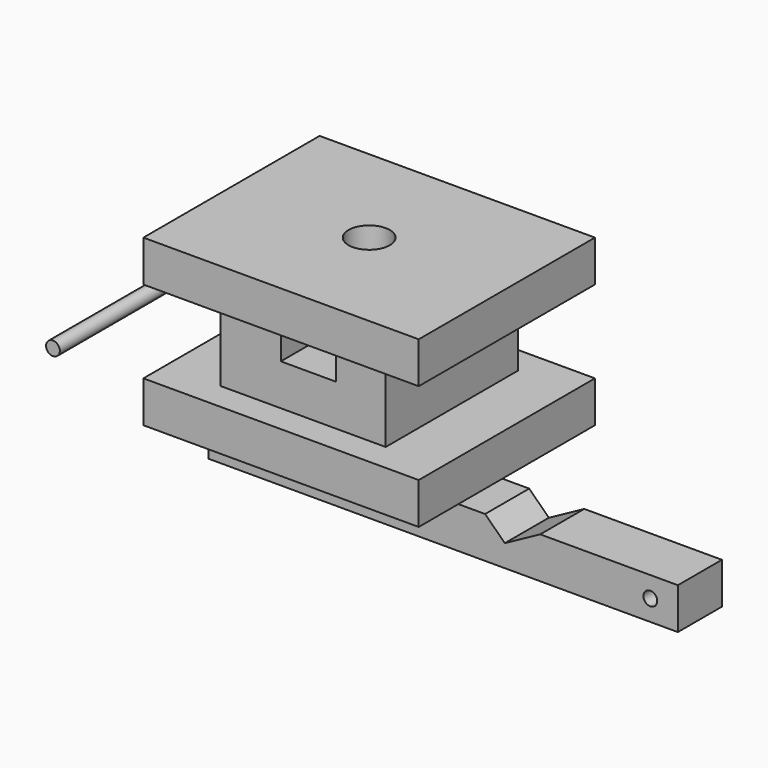
from build123d import *

# Parameters (mm, degrees)
F0_W      = 76.2
F0_H      = 38.1
F1_DEPTH  = 101.6
F2_W      = 76.2
F2_H      = 38.1
F3_DEPTH  = 12.7
F4_W      = 76.2
F4_H      = 38.1
F5_DEPTH  = 12.7
F6_W      = 25.4
F6_H      = 19.05
F7_DEPTH  = 88.901
F9_D      = 19.05
F9_DEPTH  = 19.05
F11_DEPTH = 25.4
F13_D     = 6.35
F14_R     = 3.175
F15_DEPTH = 63.5


with BuildPart() as f1:
    # F0 (on Front) → F1 (new body)
    with BuildSketch(Plane.XZ):
        Polygon((58.596868, 57.15), (-68.403132, 57.15), (-68.403132, 38.1), (-43.003132, 38.1), (33.196868, 38.1), (58.596868, 38.1), align=None)
        Polygon((33.196868, 0), (-43.003132, 0), (-68.403132, 0), (-68.403132, -19.05), (58.596868, -19.05), (58.596868, 0), align=None)
        with Locations((-4.903132, 19.05)):
            Rectangle(F0_W, F0_H)
    extrude(amount=F1_DEPTH)

    # F2 (on face) → F3 (cut)
    with BuildSketch(Plane.XZ.offset(101.6)):
        with Locations((-4.903132, 19.05)):
            Rectangle(F2_W, F2_H)
    extrude(amount=-F3_DEPTH, mode=Mode.SUBTRACT)

    # F4 (on face) → F5 (cut)
    with BuildSketch(Plane(origin=(0, 0, 0), x_dir=(-1, 0, 0), z_dir=(0, 1, 0))):
        with Locations((4.903132, 19.05)):
            Rectangle(F4_W, F4_H)
    extrude(amount=-F5_DEPTH, mode=Mode.SUBTRACT)

    # F6 (on face) → F7 (cut, through all)
    with BuildSketch(Plane.XZ.offset(88.9)):
        with Locations((-2.466307, 28.575)):
            Rectangle(F6_W, F6_H)
    extrude(amount=-F7_DEPTH, mode=Mode.SUBTRACT)

    # F9
    with Locations(Plane.XY.offset(57.15)):
        with Locations((-4.903132, -50.8)):
            Hole(F9_D / 2, depth=F9_DEPTH)


with BuildPart() as f11:
    # F10 (on Front) → F11 (new body)
    with BuildSketch(Plane.XZ):
        Polygon((117.16425, -73.67965), (117.16425, -54.62965), (53.66425, -54.62965), (37.344941, -63.508335), (28.26425, -54.62965), (-98.73575, -54.62965), (-99.354781, -54.62965), (-99.354781, -73.67965), align=None)
    extrude(amount=F11_DEPTH)

    # F13 (through all)
    with Locations(Plane.XZ.offset(25.4)):
        with Locations((-86.654781, -64.15465), (104.46425, -64.15465)):
            Hole(F13_D / 2)


with BuildPart() as f15:
    # F14 (on Front) → F15 (new body)
    with BuildSketch(Plane.XZ):
        with Locations((-140.591711, -26.773173)):
            Circle(F14_R)
    extrude(amount=F15_DEPTH)


solid = Compound([f1.part, f11.part, f15.part])
